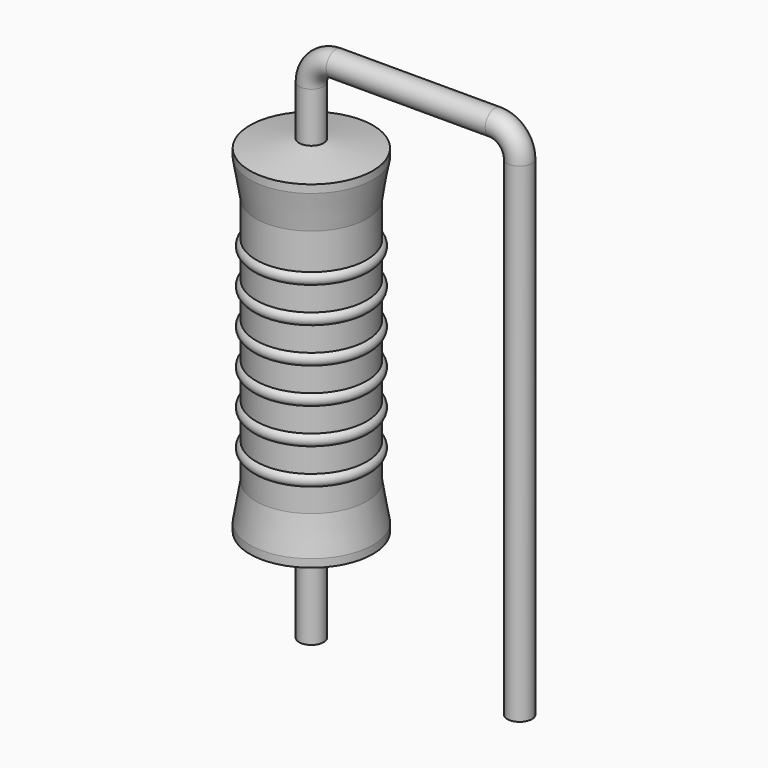
from build123d import *

# Parameters (mm, degrees)
SKETCH_R = 0.45


with BuildPart() as sweep_body:
    # Sweep: sweep along a path in Sketch001
    with BuildLine(Plane.XZ) as sweep_path:
        Line((0, -3), (0, 14.9))
        ThreePointArc((0, 14.9), (0.263601, 15.536393), (0.899991, 15.8))
        Line((0.899991, 15.8), (6.72, 15.8))
        ThreePointArc((6.72, 15.8), (7.356396, 15.536396), (7.62, 14.9))
        Line((7.62, 14.9), (7.62, -3))
    # Sketch → Sweep (sweep)
    with BuildSketch(Plane.XY.offset(-2)):
        Circle(SKETCH_R)
    sweep(path=sweep_path.line)


with BuildPart() as revolution:
    # Sketch002 → Revolution (revolve)
    with BuildSketch(Plane.XZ):
        Polygon((0, 0.1), (0, 13.1), (0.3375, 13.1), (2.25, 12.775), (2.25, 12.4825), (2.025, 11.15), (2.025, 2.05), (2.25, 0.7175), (2.25, 0.425), (0.3375, 0.1), align=None)
    revolve(axis=Axis((0, 0, 0), (0, 0, 1)))


with BuildPart() as revolution001:
    # Sketch003 → Revolution001 (revolve)
    with BuildSketch(Plane.XZ):
        with BuildLine():
            Line((1.8, 10.7), (1.8, 2.05))
            Line((1.8, 2.05), (1.935, 2.05))
            Line((1.935, 2.05), (1.935, 2.9))
            ThreePointArc((1.935, 2.9), (2.16, 3.125), (1.935, 3.35))
            Line((1.935, 3.35), (1.935, 4.2))
            ThreePointArc((1.935, 4.2), (2.16, 4.425), (1.935, 4.65))
            Line((1.935, 4.65), (1.935, 5.5))
            ThreePointArc((1.935, 5.5), (2.16, 5.725), (1.935, 5.95))
            Line((1.935, 5.95), (1.935, 6.8))
            ThreePointArc((1.935, 6.8), (2.16, 7.025), (1.935, 7.25))
            Line((1.935, 7.25), (1.935, 8.1))
            ThreePointArc((1.935, 8.1), (2.16, 8.325), (1.935, 8.55))
            Line((1.935, 8.55), (1.935, 9.4))
            ThreePointArc((1.935, 9.4), (2.16, 9.625), (1.935, 9.85))
            Line((1.935, 10.7), (1.935, 9.85))
            Line((1.8, 10.7), (1.935, 10.7))
        make_face()
    revolve(axis=Axis((0, 0, 0), (0, 0, 1)))


solid = Compound([sweep_body.part, revolution.part, revolution001.part])
